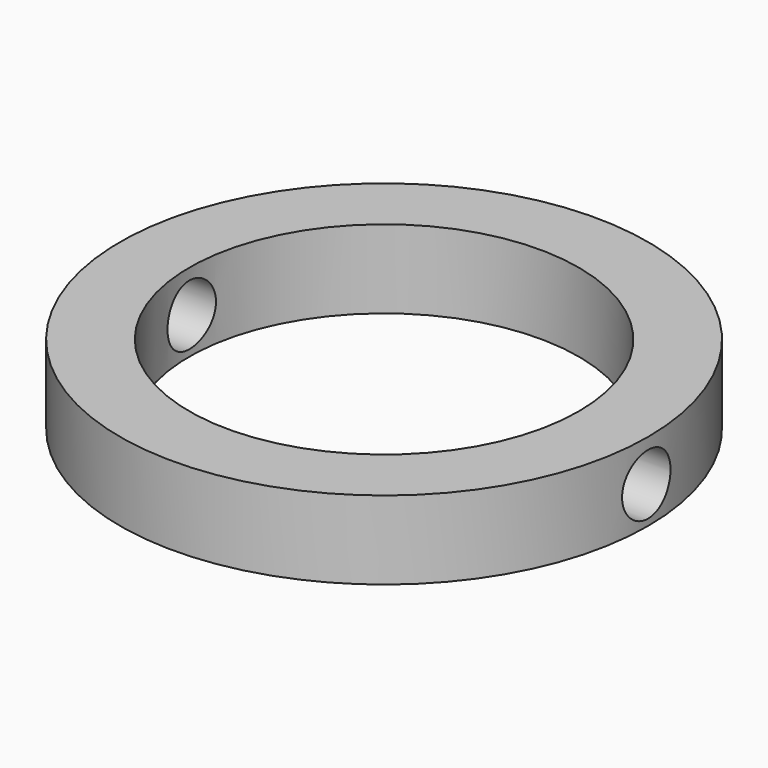
from build123d import *

# Parameters (mm, degrees)
F0_R     = 58.133017
F0_R_2   = 42.881141
F1_DEPTH = 17.272
F2_R     = 6.029186
F3_DEPTH = 121.92
F4_R     = 6.666666
F5_DEPTH = 81.788


with BuildPart() as f1:
    # F0 (on Top) → F1 (new body)
    with BuildSketch(Plane.XY):
        Circle(F0_R)
        Circle(F0_R_2, mode=Mode.SUBTRACT)
    extrude(amount=F1_DEPTH)

    # F2 (on Right) → F3 (cut)
    with BuildSketch(Plane.YZ):
        with Locations((0, 8.339126)):
            Circle(F2_R)
    extrude(amount=F3_DEPTH, mode=Mode.SUBTRACT)

    # F4 (on Right) → F5 (cut, symmetric)
    with BuildSketch(Plane.YZ):
        with Locations((0, 8.09556)):
            Circle(F4_R)
    extrude(amount=F5_DEPTH, both=True, mode=Mode.SUBTRACT)


solid = f1.part
